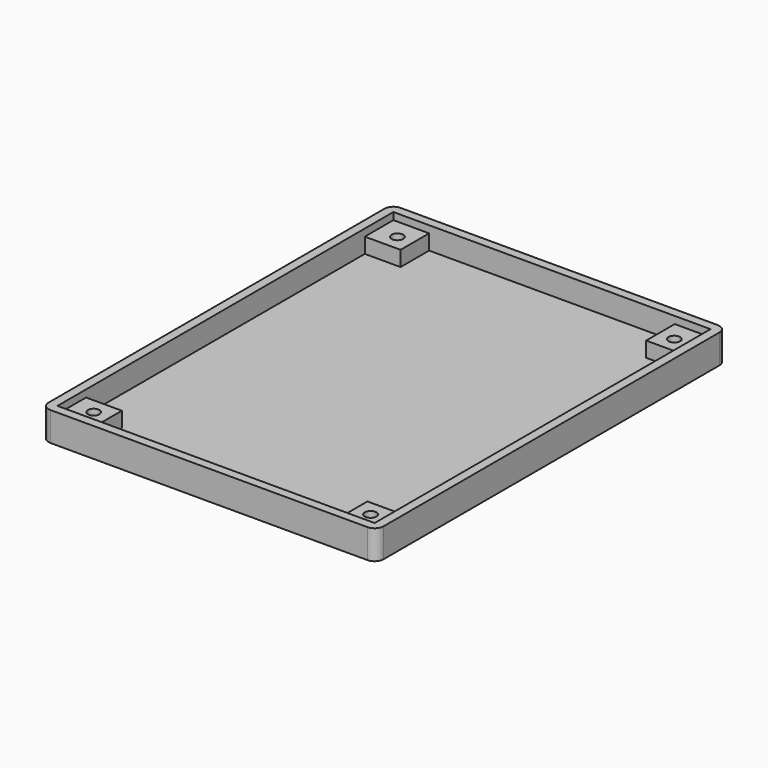
from build123d import *

# Parameters (mm, degrees)
F1_DEPTH = 1.5
F2_W     = 74.9872508645
F2_H     = 97.9872508645
F2_W_2   = 70.9872508645
F2_H_2   = 93.9872508645
F3_DEPTH = 5
F4_W     = 8
F4_H     = 8
F4_R     = 1.3
F5_DEPTH = 3.4
F6_R     = 2


with BuildPart() as f1:
    # F0 (on Top) → F1 (new body)
    with BuildSketch(Plane.XY):
        Polygon((-39.4936254323, -50.4936254323), (-37, -50.4936254323), (33, -50.4936254323), (35.4936254323, -50.4936254323), (35.4936254323, -48), (35.4936254323, 45), (35.4936254323, 47.4936254323), (33, 47.4936254323), (-37, 47.4936254323), (-39.4936254323, 47.4936254323), (-39.4936254323, -47.5), align=None)
    extrude(amount=F1_DEPTH)

    # F2 (on face) → F3 (join)
    with BuildSketch(Plane.XY.offset(1.5)):
        with Locations((-2, -1.5)):
            Rectangle(F2_W, F2_H)
        with Locations((-2, -1.5)):
            Rectangle(F2_W_2, F2_H_2, mode=Mode.SUBTRACT)
    extrude(amount=F3_DEPTH)

    # F4 (on face) → F5 (join)
    with BuildSketch(Plane.XY.offset(1.5)):
        with Locations((-33.4936254323, 41.4936254323)):
            Rectangle(F4_W, F4_H)
        with Locations((-32.9936254323, 40.9936254323)):
            Circle(F4_R, mode=Mode.SUBTRACT)
        with Locations((29.4936254323, 41.4936254323)):
            Rectangle(F4_W, F4_H)
        with Locations((28.9936254323, 40.9936254323)):
            Circle(F4_R, mode=Mode.SUBTRACT)
        with Locations((29.4936254323, -44.4936254323)):
            Rectangle(F4_W, F4_H)
        with Locations((28.9936254323, -43.9936254323)):
            Circle(F4_R, mode=Mode.SUBTRACT)
        with Locations((-33.4936254323, -44.4936254323)):
            Rectangle(F4_W, F4_H)
        with Locations((-32.9936254323, -43.9936254323)):
            Circle(F4_R, mode=Mode.SUBTRACT)
    extrude(amount=F5_DEPTH)

    # F6
    f6_edges = [f1.edges().sort_by_distance(p)[0] for p in [
        (-39.493625, -50.493625, 3.25),
        (-39.493625, 47.493625, 3.25),
        (35.493625, 47.493625, 3.25),
        (35.493625, -50.493625, 3.25),
    ]]
    fillet(f6_edges, radius=F6_R)


solid = f1.part
